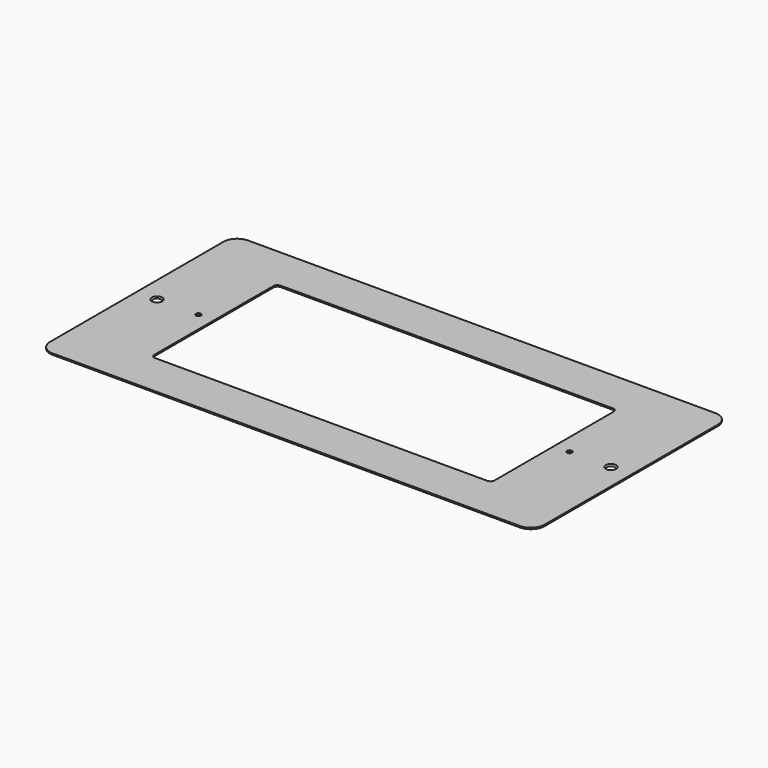
from build123d import *

# Parameters (mm, degrees)
F1_DEPTH       = 1.21412
F3_D           = 4.4958
F4_D           = 4.318
F4_CSINK_D     = 9.1186
F4_CSINK_ANGLE = 82


with BuildPart() as f1:
    # F0 (on Top) → F1 (new body)
    with BuildSketch(Plane.XY):
        with BuildLine():
            Line((203.9, 106.68), (-203.9, 106.68))
            ThreePointArc((-203.9, 106.68), (-212.3852813742, 103.1652813742), (-215.9, 94.68))
            Line((-215.9, 94.68), (-215.9, -94.68))
            ThreePointArc((-215.9, -94.68), (-212.3852813742, -103.1652813742), (-203.9, -106.68))
            Line((-203.9, -106.68), (203.9, -106.68))
            ThreePointArc((203.9, -106.68), (212.3852813742, -103.1652813742), (215.9, -94.68))
            Line((215.9, -94.68), (215.9, 94.68))
            ThreePointArc((215.9, 94.68), (212.3852813742, 103.1652813742), (203.9, 106.68))
        make_face()
        with BuildLine():
            ThreePointArc((-148.5, 65), (-147.4748737342, 67.4748737342), (-145, 68.5))
            Line((-145, 68.5), (145, 68.5))
            ThreePointArc((145, 68.5), (147.4748737342, 67.4748737342), (148.5, 65))
            Line((148.5, 65), (148.5, -65))
            ThreePointArc((148.5, -65), (147.4748737342, -67.4748737342), (145, -68.5))
            Line((145, -68.5), (-145, -68.5))
            ThreePointArc((-145, -68.5), (-147.4748737342, -67.4748737342), (-148.5, -65))
            Line((-148.5, -65), (-148.5, 65))
        make_face(mode=Mode.SUBTRACT)
    extrude(amount=F1_DEPTH)

    # F3 (through all)
    with Locations(Plane.XY.offset(1.21412)):
        with Locations((-162, 0), (162, 0)):
            Hole(F3_D / 2)

    # F4 (through all)
    with Locations(Plane.XY.offset(1.21412)):
        with Locations((-198.12, 0), (198.12, 0)):
            CounterSinkHole(F4_D / 2, F4_CSINK_D / 2, counter_sink_angle=F4_CSINK_ANGLE)


with BuildPart() as f5_1:
    # F5: copy of F1
    add(f1.part)


solid = Compound([f1.part, f5_1.part])
